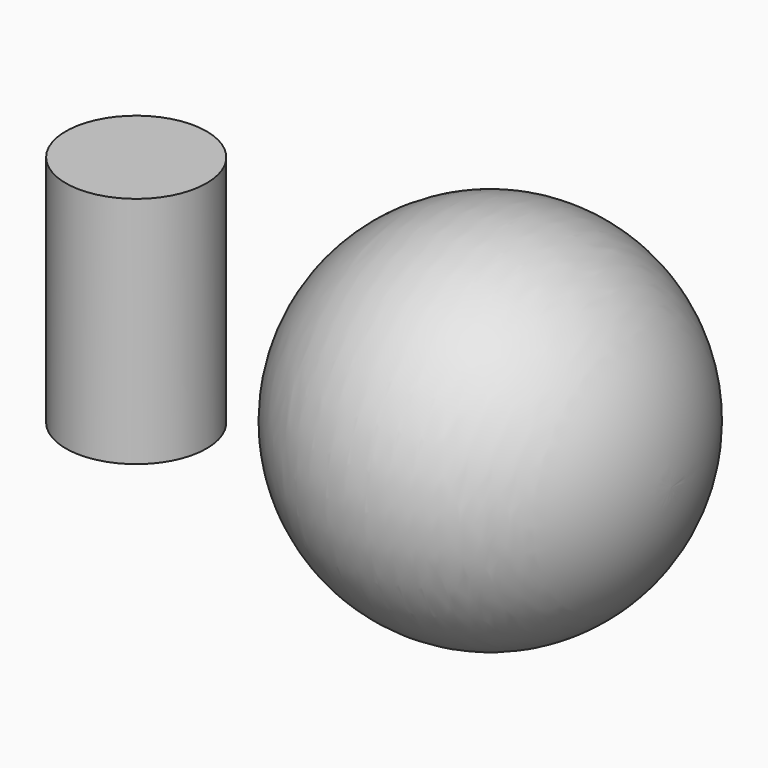
from build123d import *

# Parameters (mm, degrees)
F0_R     = 17.145433
F2_DEPTH = 28.448


with BuildPart() as f1:
    # F0 (on Top) → F1 (revolve)
    with BuildSketch(Plane.XY):
        with BuildLine():
            ThreePointArc((61.274625, 0), (17.196719, 44.077907), (-26.881188, 0))
            Line((-26.881188, 0), (61.274625, 0))
        make_face()
    revolve(axis=Axis((17.196719, 0, 0), (1, 0, 0)))


with BuildPart() as f2:
    # F0 (on Top) → F2 (new body, symmetric)
    with BuildSketch(Plane.XY):
        with Locations((-69.058403, 0)):
            Circle(F0_R)
    extrude(amount=F2_DEPTH, both=True)


solid = Compound([f1.part, f2.part])
